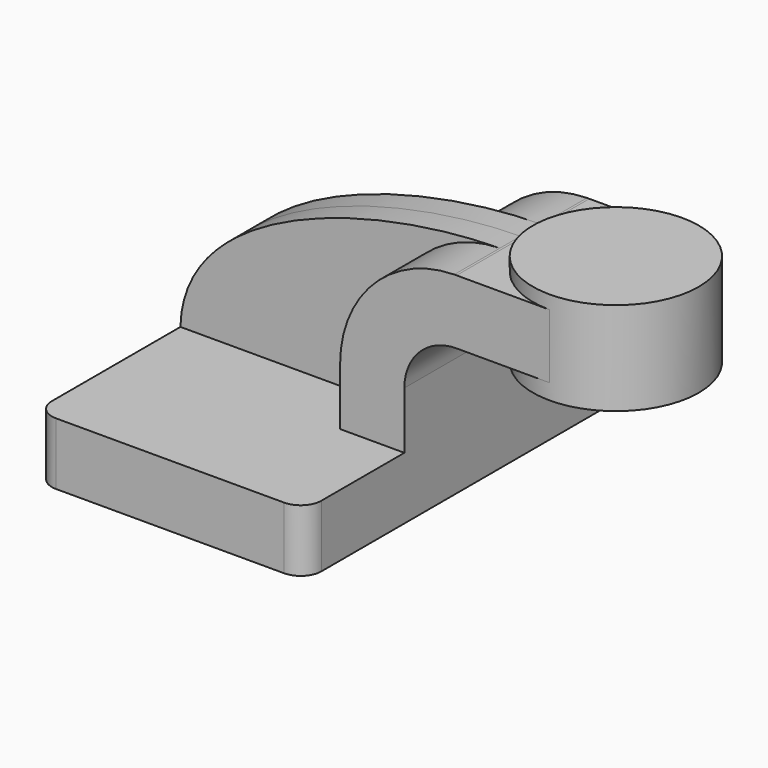
from build123d import *

# Parameters (mm, degrees)
F1_DEPTH = 63.5
F0_W     = 25.4
F0_H     = 19.685
F2_DEPTH = 25.4
F3_DEPTH = 7.9375
F5_R     = 6.35


with BuildPart() as f1:
    # F0 (on Front) → F1 (new body, symmetric)
    with BuildSketch(Plane.XZ):
        Polygon((-41.275, -9.525), (41.275, -9.525), (41.275, 9.525), (21.59, 9.525), (-41.275, 9.525), align=None)
    extrude(amount=F1_DEPTH, both=True)

    # F0 (on Front) → F2 (join, symmetric)
    with BuildSketch(Plane.XZ):
        with Locations((73.025, 52.7177)):
            Rectangle(F0_W, F0_H)
        with BuildLine():
            Line((21.59, 9.525), (41.275, 9.525))
            Line((41.275, 9.525), (41.275, 27.0003848501))
            ThreePointArc((41.275, 27.0003848501), (45.9517980204, 38.2527578187), (57.2266091243, 42.8752))
            Line((57.2266091243, 42.8752), (60.325, 42.8752))
            Line((60.325, 42.8752), (60.325, 62.5602))
            Line((60.325, 62.5602), (57.2646582231, 62.5602))
            add(Edge.make_bspline(
                [(56.5437113454, 62.5552159434), (56.7846331998, 62.5574824259), (57.024954062, 62.5591436788), (57.2646582231, 62.5602)],
                knots=[111.2383835496, 111.2383835496, 111.2383835496, 111.2383835496, 111.9053022951, 111.9053022951, 111.9053022951, 111.9053022951], degree=3))
            ThreePointArc((56.5437113454, 62.5552159434), (31.7918334204, 51.9298250308), (21.59, 27.0003848501))
            Line((21.59, 27.0003848501), (21.59, 9.525))
        make_face()
    extrude(amount=F2_DEPTH, both=True)

    # F0 (on Front) → F3 (join, symmetric)
    with BuildSketch(Plane.XZ):
        with BuildLine():
            add(Edge.make_bspline(
                [(-41.275, 9.525), (-40.545019562, 44.9614056153), (16.3592693548, 62.1771791015), (56.5437113454, 62.5552159434)],
                knots=[0, 0, 0, 0, 111.2383835496, 111.2383835496, 111.2383835496, 111.2383835496], degree=3))
            Line((-41.275, 9.525), (21.59, 9.525))
            Line((21.59, 9.525), (21.59, 27.0003848501))
            ThreePointArc((21.59, 27.0003848501), (31.7918334204, 51.9298250308), (56.5437113454, 62.5552159434))
        make_face()
    extrude(amount=F3_DEPTH, both=True)

    # F0 (on Front) → F4 (revolve)
    with BuildSketch(Plane.XZ):
        Polygon((85.725, 62.5602), (85.725, 42.8752), (85.725, 38.1), (111.125, 38.1), (111.125, 66.675), (85.725, 66.675), align=None)
    revolve(axis=Axis((85.725, 0, 52.3875), (0, 0, 1)))

    # F5
    f5_edges = [f1.edges().sort_by_distance(p)[0] for p in [
        (-41.275, 63.5, 0),
        (-41.275, -63.5, 0),
        (41.275, -63.5, 0),
        (41.275, 63.5, 0),
    ]]
    fillet(f5_edges, radius=F5_R)


solid = f1.part
